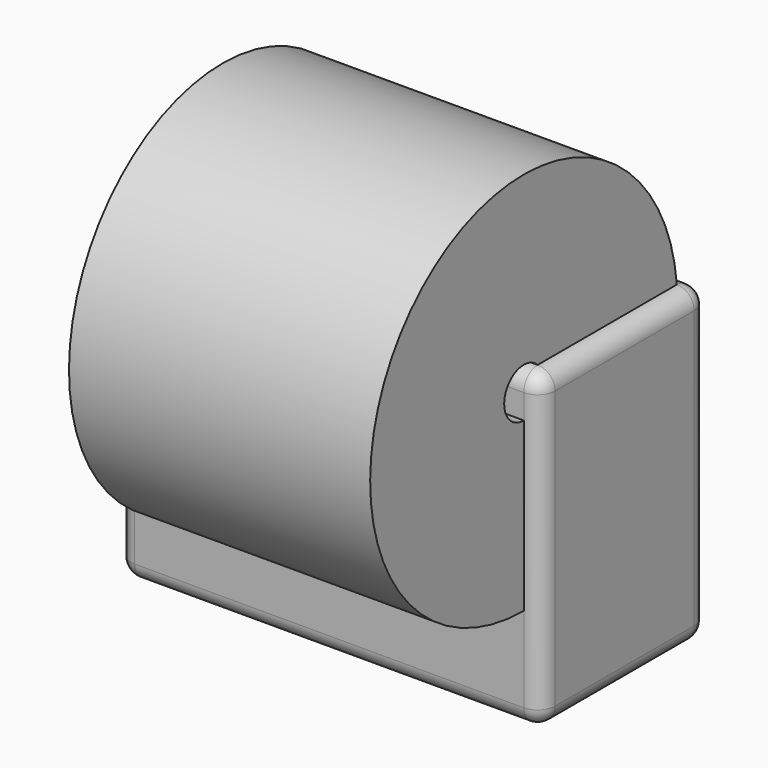
from build123d import *

# Parameters (mm, degrees)
F1_DEPTH = 90
F2_R     = 5


with BuildPart() as f1:
    # F0 (on Top) → F1 (new body)
    with BuildSketch(Plane.XY):
        Polygon((-125.3208518028, 0), (0, 0), (0, 60.1540058851), (-94.9204340577, 60.1540058851), align=None)
    extrude(amount=F1_DEPTH)

    # F2
    f2_edges = [f1.edges().sort_by_distance(p)[0] for p in [
        (-47.460217, 60.154006, 90),
        (0, 30.077003, 90),
        (-62.660426, 0, 90),
        (-110.120643, 30.077003, 90),
        (0, 60.154006, 45),
        (0, 0, 45),
        (-94.920434, 60.154006, 45),
        (-125.320852, 0, 45),
        (-110.120643, 30.077003, 0),
        (-62.660426, 0, 0),
        (-47.460217, 60.154006, 0),
        (0, 30.077003, 0),
    ]]
    fillet(f2_edges, radius=F2_R)

    # F1_face (on face) → F3 (revolve)
    with BuildSketch(Plane(origin=(-55.0281837539, 29.0125128526, 90), x_dir=(1, 0, 0), z_dir=(0, 0, 1))):
        Polygon((50.0281837539, 26.1414930325), (-36.8168888954, 26.1414930325), (-62.1635421741, -24.0125128526), (50.0281837539, -24.0125128526), align=None)
    revolve(axis=Axis((-61.095862964, 0, 85), (1, 0, 0)))


solid = f1.part
